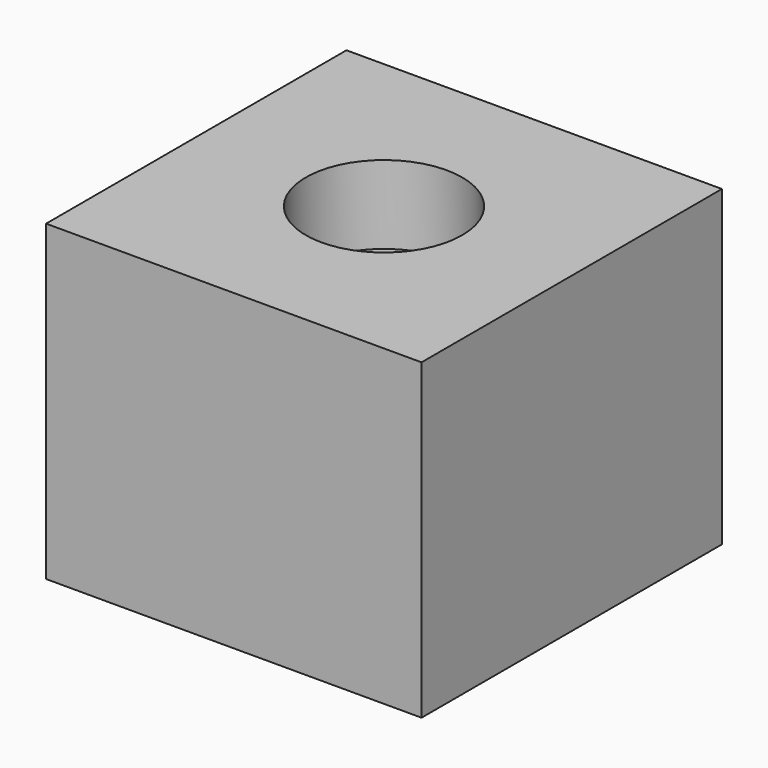
from build123d import *

# Parameters (mm, degrees)
F0_W     = 120
F0_H     = 120
F1_DEPTH = 100
F2_R     = 25
F3_DEPTH = 25


with BuildPart() as f1:
    # F0 (on Top) → F1 (new body)
    with BuildSketch(Plane.XY):
        Rectangle(F0_W, F0_H)
    extrude(amount=F1_DEPTH)


with BuildPart() as f3:
    # F2 (on face) → F3 (new body)
    with BuildSketch(Plane.XY.offset(100)):
        Circle(F2_R)
    extrude(amount=-F3_DEPTH)


with BuildPart() as f1_1:
    add(f1.part)

    # F4: cut F3
    add(f3.part, mode=Mode.SUBTRACT)


solid = f1_1.part
